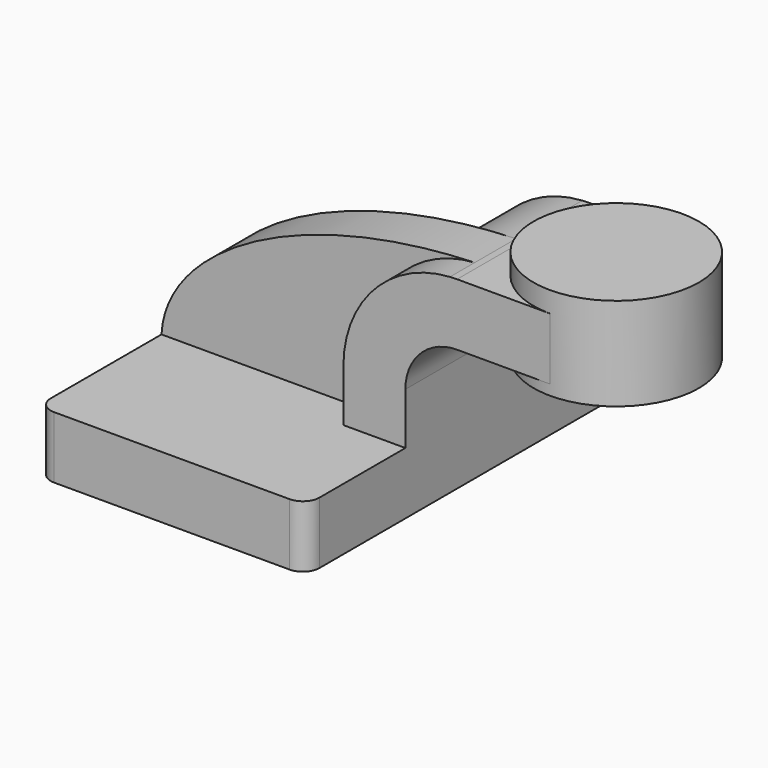
from build123d import *

# Parameters (mm, degrees)
F1_DEPTH = 63.5
F0_W     = 25.4
F0_H     = 19.05
F2_DEPTH = 25.4
F3_DEPTH = 15.875
F5_R     = 5.08


with BuildPart() as f1:
    # F0 (on Front) → F1 (new body, symmetric)
    with BuildSketch(Plane.XZ):
        Polygon((41.275, -9.525), (41.275, 9.525), (22.225, 9.525), (-41.275, 9.525), (-41.275, -9.525), align=None)
    extrude(amount=F1_DEPTH, both=True)

    # F0 (on Front) → F2 (join, symmetric)
    with BuildSketch(Plane.XZ):
        with BuildLine():
            Line((22.225, 9.525), (41.275, 9.525))
            Line((41.275, 9.525), (41.275, 25.4))
            ThreePointArc((41.275, 25.4), (45.9246798487, 36.6253201513), (57.15, 41.275))
            Line((57.15, 41.275), (60.325, 41.275))
            Line((60.325, 41.275), (60.325, 60.325))
            Line((60.325, 60.325), (57.15, 60.325))
            add(Edge.make_bspline(
                [(54.9717725402, 60.2570071884), (55.6950364998, 60.2833505929), (56.4211273371, 60.3060301334), (57.15, 60.325)],
                knots=[109.3489314382, 109.3489314382, 109.3489314382, 109.3489314382, 110.761548495, 110.761548495, 110.761548495, 110.761548495], degree=3))
            ThreePointArc((54.9717725402, 60.2570071884), (31.6958233385, 49.3131870624), (22.225, 25.4))
            Line((22.225, 25.4), (22.225, 9.525))
        make_face()
        with Locations((73.025, 50.8)):
            Rectangle(F0_W, F0_H)
    extrude(amount=F2_DEPTH, both=True)

    # F0 (on Front) → F3 (join)
    with BuildSketch(Plane.XZ):
        with BuildLine():
            Line((-41.275, 9.525), (22.225, 9.525))
            Line((22.225, 9.525), (22.225, 25.4))
            ThreePointArc((22.225, 25.4), (31.6958233385, 49.3131870624), (54.9717725402, 60.2570071884))
            add(Edge.make_bspline(
                [(-41.275, 9.525), (-40.0631774846, 34.224289081), (-1.0151920435, 58.2177969706), (54.9717725402, 60.2570071884)],
                knots=[0, 0, 0, 0, 109.3489314382, 109.3489314382, 109.3489314382, 109.3489314382], degree=3))
        make_face()
    extrude(amount=F3_DEPTH)

    # F5
    f5_edges = [f1.edges().sort_by_distance(p)[0] for p in [
        (41.275, -63.5, 0),
        (-41.275, -63.5, 0),
        (41.275, 63.5, 0),
        (-41.275, 63.5, 0),
    ]]
    fillet(f5_edges, radius=F5_R)


with BuildPart() as f4:
    # F0 (on Front) → F4 (revolve)
    with BuildSketch(Plane.XZ):
        Polygon((85.725, 60.325), (85.725, 41.275), (85.725, 38.1), (111.125, 38.1), (111.125, 66.675), (85.725, 66.675), align=None)
    revolve(axis=Axis((85.725, 0, 50.8), (0, 0, -1)))


solid = Compound([f1.part, f4.part])
